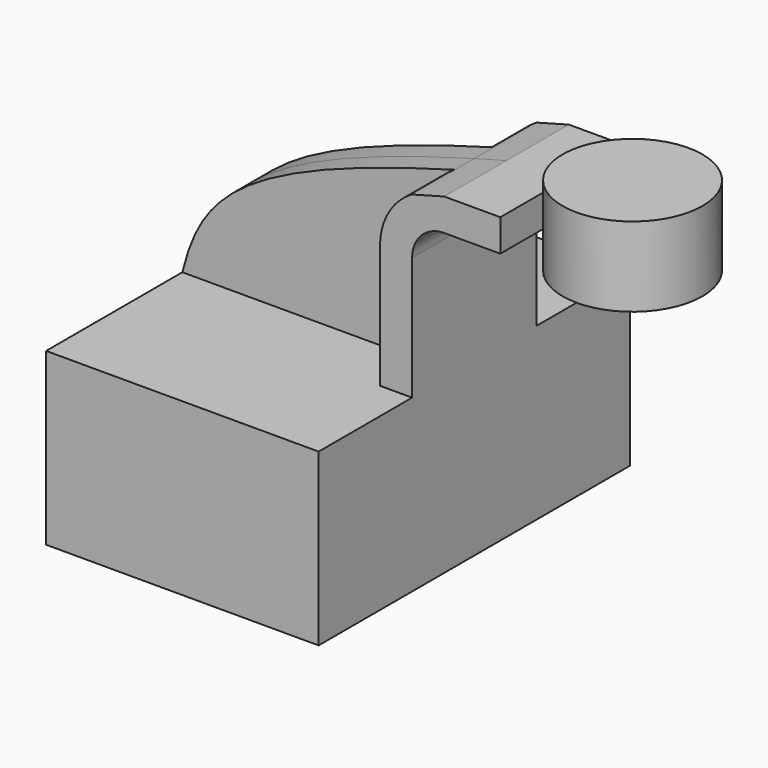
from build123d import *

# Parameters (mm, degrees)
F1_DEPTH = 63.5
F2_DEPTH = 25.4
F3_DEPTH = 7.9375


with BuildPart() as f1:
    # F0 (on Front) → F1 (new body, symmetric)
    with BuildSketch(Plane.XZ):
        Polygon((33.979319, 27.829567), (-44.45, 27.829567), (-44.45, -27.829567), (44.45, -27.829567), (44.45, 27.829567), align=None)
    extrude(amount=F1_DEPTH, both=True)

    # F0 (on Front) → F2 (join, symmetric)
    with BuildSketch(Plane.XZ):
        with BuildLine():
            Line((33.979319, 68.027823), (33.979319, 27.829567))
            Line((33.979319, 27.829567), (44.45, 27.829567))
            Line((44.45, 27.829567), (44.45, 68.027823))
            ThreePointArc((44.45, 68.027823), (47.523641, 75.448248), (54.944067, 78.521889))
            Line((54.944067, 78.521889), (73.224866, 78.521889))
            Line((73.224866, 78.521889), (73.224866, 88.99257))
            Line((73.224866, 88.99257), (54.944067, 88.99257))
            add(Edge.make_bspline(
                [(44.382965, 86.138145), (47.767337, 87.076958), (51.285793, 88.02787), (54.944067, 88.99257)],
                knots=[111.36688, 111.36688, 111.36688, 111.36688, 116.705156, 116.705156, 116.705156, 116.705156], degree=3))
            ThreePointArc((44.382965, 86.138145), (36.76535, 78.470758), (33.979319, 68.027823))
        make_face()
    extrude(amount=F2_DEPTH, both=True)

    # F0 (on Front) → F3 (join, symmetric)
    with BuildSketch(Plane.XZ):
        with BuildLine():
            add(Edge.make_bspline(
                [(-44.45, 27.829567), (-38.470864, 52.23245), (-26.221669, 66.552655), (44.382965, 86.138145)],
                knots=[0, 0, 0, 0, 111.36688, 111.36688, 111.36688, 111.36688], degree=3))
            Line((-44.45, 27.829567), (33.979319, 27.829567))
            Line((33.979319, 27.829567), (33.979319, 68.027823))
            ThreePointArc((33.979319, 68.027823), (36.76535, 78.470758), (44.382965, 86.138145))
        make_face()
    extrude(amount=F3_DEPTH, both=True)

    # F0 (on Front) → F4 (revolve)
    with BuildSketch(Plane.XZ):
        Polygon((96.029638, 96.720862), (96.029638, 88.99257), (96.029638, 78.521889), (96.029638, 70.793598), (118.834409, 70.793598), (118.834409, 96.720862), align=None)
    revolve(axis=Axis((96.029638, 0, 83.75723), (0, 0, -1)))


solid = f1.part
